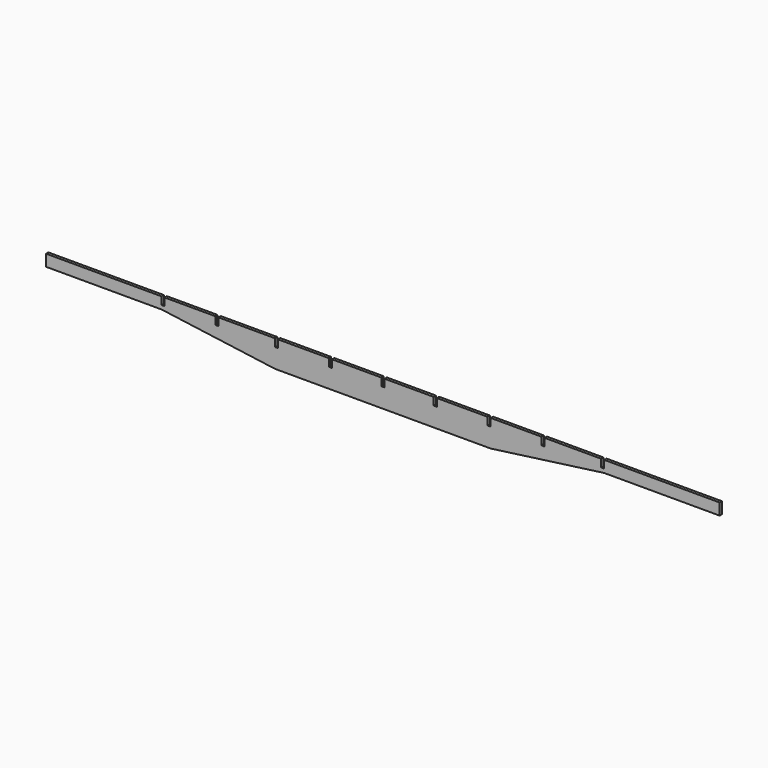
from build123d import *

# Parameters (mm, degrees)
F1_DEPTH  = 0.75
F2_W      = 0.8
F2_H      = 2
F3_DEPTH  = 0.751
F4_W      = 0.8
F4_H      = 2
F5_DEPTH  = 0.751
F6_W      = 0.8
F6_H      = 2
F7_DEPTH  = 0.751
F8_W      = 0.8
F8_H      = 2
F9_DEPTH  = 0.751
F10_W     = 0.8
F10_H     = 2
F11_DEPTH = 0.751
F12_W     = 0.8
F12_H     = 2
F13_DEPTH = 0.751
F14_W     = 0.8
F14_H     = 2
F15_DEPTH = 0.751
F16_W     = 0.8
F16_H     = 2
F17_DEPTH = 0.751
F18_W     = 0.8
F18_H     = 2
F19_DEPTH = 0.751


with BuildPart() as f1:
    # F0 (on Front) → F1 (new body)
    with BuildSketch(Plane.XZ):
        Polygon((89.981408, 0), (-85.018592, 0), (-85.018592, -3), (-55.018592, -3), (-25.518592, -7), (30.481408, -7), (59.981408, -3), (89.981408, -3), align=None)
    extrude(amount=F1_DEPTH)

    # F2 (on face) → F3 (cut, through all)
    with BuildSketch(Plane.XZ.offset(0.75)):
        with Locations((-54.638592, -1)):
            Rectangle(F2_W, F2_H)
    extrude(amount=-F3_DEPTH, mode=Mode.SUBTRACT)

    # F4 (on face) → F5 (cut, through all)
    with BuildSketch(Plane.XZ.offset(0.75)):
        with Locations((-40.638592, -1)):
            Rectangle(F4_W, F4_H)
    extrude(amount=-F5_DEPTH, mode=Mode.SUBTRACT)

    # F6 (on face) → F7 (cut, through all)
    with BuildSketch(Plane.XZ.offset(0.75)):
        with Locations((-25.138592, -1)):
            Rectangle(F6_W, F6_H)
    extrude(amount=-F7_DEPTH, mode=Mode.SUBTRACT)

    # F8 (on face) → F9 (cut, through all)
    with BuildSketch(Plane.XZ.offset(0.75)):
        with Locations((-11.138592, -1)):
            Rectangle(F8_W, F8_H)
    extrude(amount=-F9_DEPTH, mode=Mode.SUBTRACT)

    # F10 (on face) → F11 (cut, through all)
    with BuildSketch(Plane.XZ.offset(0.75)):
        with Locations((2.501408, -1)):
            Rectangle(F10_W, F10_H)
    extrude(amount=-F11_DEPTH, mode=Mode.SUBTRACT)

    # F12 (on face) → F13 (cut, through all)
    with BuildSketch(Plane.XZ.offset(0.75)):
        with Locations((16.101408, -1)):
            Rectangle(F12_W, F12_H)
    extrude(amount=-F13_DEPTH, mode=Mode.SUBTRACT)

    # F14 (on face) → F15 (cut, through all)
    with BuildSketch(Plane.XZ.offset(0.75)):
        with Locations((30.101408, -1)):
            Rectangle(F14_W, F14_H)
    extrude(amount=-F15_DEPTH, mode=Mode.SUBTRACT)

    # F16 (on face) → F17 (cut, through all)
    with BuildSketch(Plane.XZ.offset(0.75)):
        with Locations((44.101408, -1)):
            Rectangle(F16_W, F16_H)
    extrude(amount=-F17_DEPTH, mode=Mode.SUBTRACT)

    # F18 (on face) → F19 (cut, through all)
    with BuildSketch(Plane.XZ.offset(0.75)):
        with Locations((59.601408, -1)):
            Rectangle(F18_W, F18_H)
    extrude(amount=-F19_DEPTH, mode=Mode.SUBTRACT)


solid = f1.part
